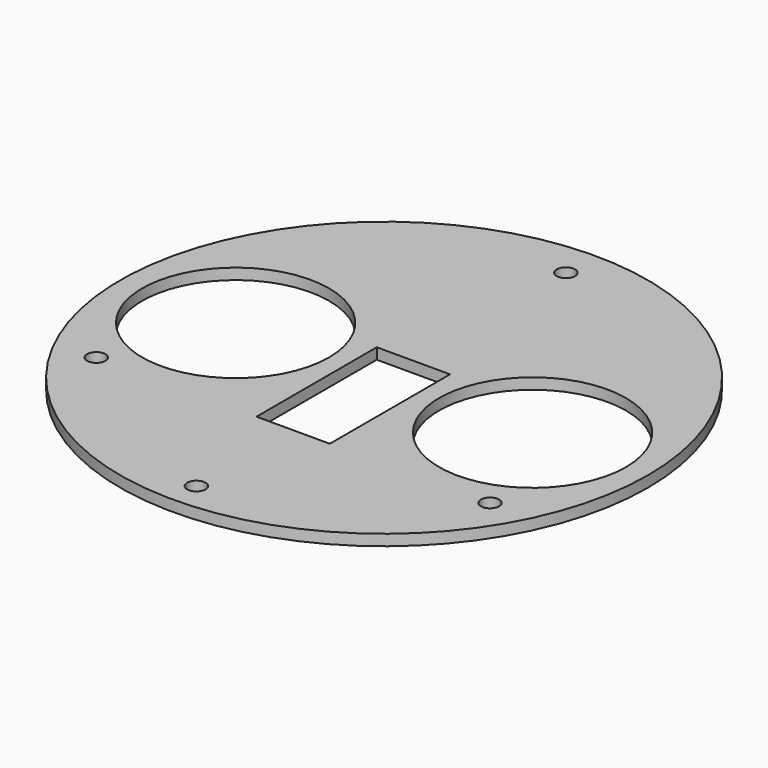
from build123d import *

# Parameters (mm, degrees)
F0_R     = 72
F1_DEPTH = 3
F2_R     = 25.5
F3_DEPTH = 3
F4_R     = 2.5
F5_DEPTH = 25.4
F6_W     = 20
F6_H     = 41
F7_DEPTH = 3
F8_R     = 2.5
F9_DEPTH = 25.4


with BuildPart() as f1:
    # F0 (on Top) → F1 (new body)
    with BuildSketch(Plane.XY):
        Circle(F0_R)
    extrude(amount=F1_DEPTH)

    # F2 (on face) → F3 (cut)
    with BuildSketch(Plane.XY.offset(3)):
        with Locations((-40.5, 0)):
            Circle(F2_R)
        with Locations((40.5, 0)):
            Circle(F2_R)
    extrude(amount=-F3_DEPTH, mode=Mode.SUBTRACT)

    # F4 (on face) → F5 (cut)
    with BuildSketch(Plane.XY.offset(3)):
        with Locations((0, 62)):
            Circle(F4_R)
        Circle(F4_R)
        with Locations((0, -64)):
            Circle(F4_R)
    extrude(amount=-F5_DEPTH, mode=Mode.SUBTRACT)

    # F6 (on face) → F7 (cut)
    with BuildSketch(Plane.XY.offset(3)):
        with Locations((0, -10.5)):
            Rectangle(F6_W, F6_H)
    extrude(amount=-F7_DEPTH, mode=Mode.SUBTRACT)

    # F8 (on face) → F9 (cut)
    with BuildSketch(Plane.XY.offset(3)):
        with Locations((-53.693575, -31)):
            Circle(F8_R)
        with Locations((53.693575, -31)):
            Circle(F8_R)
    extrude(amount=-F9_DEPTH, mode=Mode.SUBTRACT)


solid = f1.part
